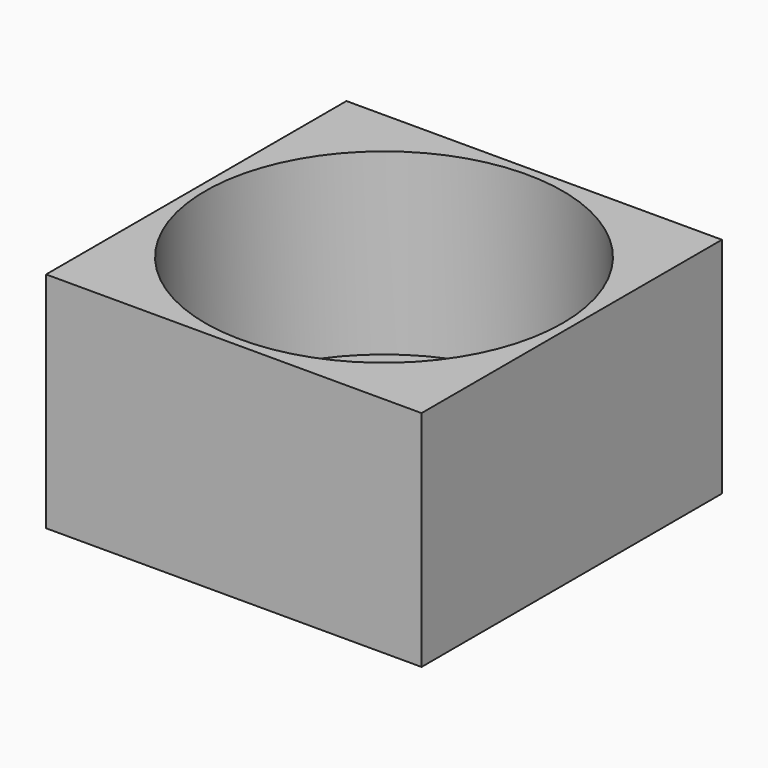
from build123d import *

# Parameters (mm, degrees)
F1_DEPTH = 5
F2_DEPTH = 25


with BuildPart() as f1:
    # F0 (on Top) → F1 (new body)
    with BuildSketch(Plane.XY):
        Polygon((-21, 21), (-21, 0), (-21, -21), (21, -21), (21, 21), align=None)
        with BuildLine():
            ThreePointArc((-20, 0), (0, 20), (20, 0))
            ThreePointArc((20, 0), (0, -20), (-20, 0))
        make_face(mode=Mode.SUBTRACT)
        with BuildLine():
            ThreePointArc((-20, 0), (0, -20), (20, 0))
            ThreePointArc((20, 0), (0, 20), (-20, 0))
        make_face()
    extrude(amount=F1_DEPTH)

    # F0 (on Top) → F2 (join)
    with BuildSketch(Plane.XY):
        Polygon((-21, 21), (-21, 0), (-21, -21), (21, -21), (21, 21), align=None)
        with BuildLine():
            ThreePointArc((-20, 0), (0, 20), (20, 0))
            ThreePointArc((20, 0), (0, -20), (-20, 0))
        make_face(mode=Mode.SUBTRACT)
    extrude(amount=F2_DEPTH)


solid = f1.part
